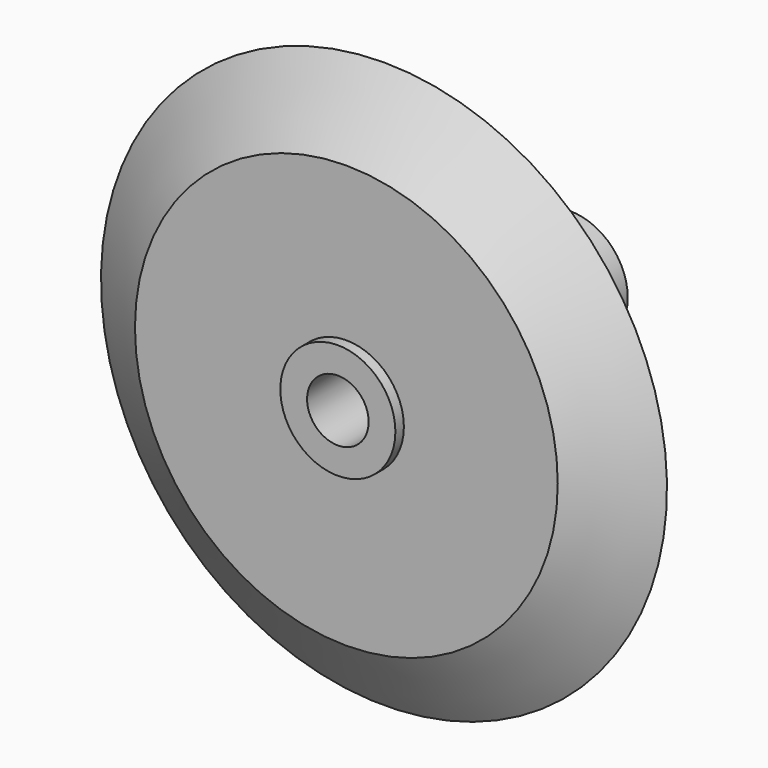
from build123d import *

# Parameters (mm, degrees)
F0_W     = 12.7
F0_H     = 20.536174
F2_R     = 7.5976
F3_DEPTH = 38.354
F5_D     = 8.128


with BuildPart() as f1:
    # F0 (on Right) → F1 (revolve)
    with BuildSketch(Plane.YZ):
        Polygon((-36.951599, 27.917587), (-24.251599, 27.917587), (-30.736707, 37.375033), align=None)
        with Locations((-30.601599, 17.6495)):
            Rectangle(F0_W, F0_H)
    revolve(axis=Axis((0, -24.285374, 0), (0, -1, 0)))


with BuildPart() as f3:
    # F2 (on Front) → F3 (new body)
    with BuildSketch(Plane.XZ):
        Circle(F2_R)
    extrude(amount=F3_DEPTH)

    # F5 (through all)
    with Locations(Plane(origin=(0, 0, 0), x_dir=(1, 0, 0), z_dir=(0, 1, 0))):
        with Locations((0, 0)):
            Hole(F5_D / 2)


solid = Compound([f1.part, f3.part])
